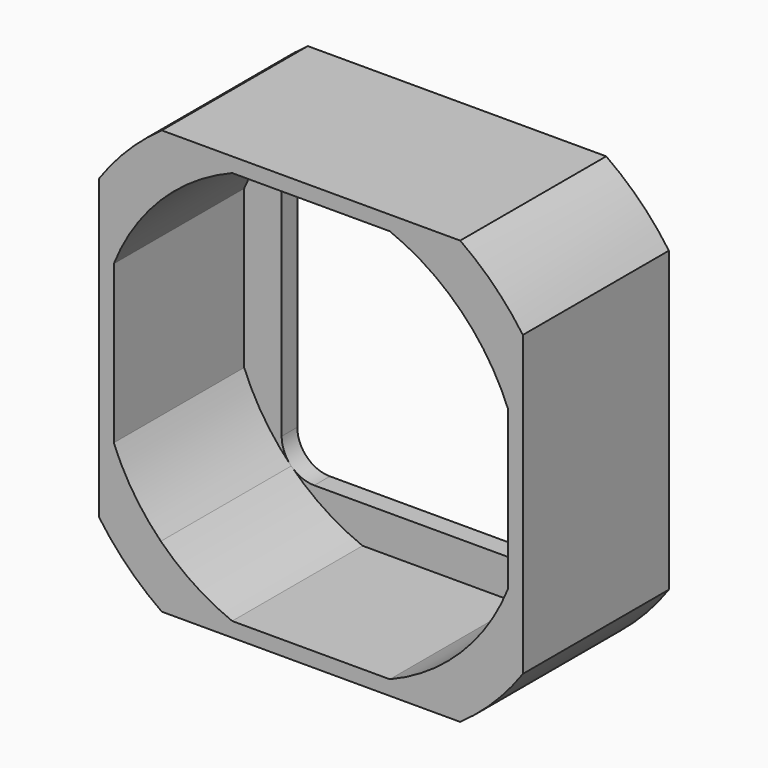
from build123d import *

# Parameters (mm, degrees)
F1_DEPTH = 3
F3_DEPTH = 25


with BuildPart() as f1:
    # F0 (on Front) → F1 (new body)
    with BuildSketch(Plane.XZ):
        with BuildLine():
            ThreePointArc((32.5, 22.88695), (28.107495, 28.107495), (22.88695, 32.5))
            Line((22.88695, 32.5), (-22.88695, 32.5))
            ThreePointArc((-22.88695, 32.5), (-28.107495, 28.107495), (-32.5, 22.88695))
            Line((-32.5, 22.88695), (-32.5, -22.88695))
            ThreePointArc((-32.5, -22.88695), (-28.107495, -28.107495), (-22.88695, -32.5))
            Line((-22.88695, -32.5), (22.88695, -32.5))
            ThreePointArc((22.88695, -32.5), (28.107495, -28.107495), (32.5, -22.88695))
            Line((32.5, -22.88695), (32.5, 22.88695))
        make_face()
        with BuildLine():
            ThreePointArc((24.5, -19.5), (23.035534, -23.035534), (19.5, -24.5))
            Line((19.5, -24.5), (-19.5, -24.5))
            ThreePointArc((-19.5, -24.5), (-23.035534, -23.035534), (-24.5, -19.5))
            Line((-24.5, -19.5), (-24.5, 19.5))
            ThreePointArc((-24.5, 19.5), (-23.035534, 23.035534), (-19.5, 24.5))
            Line((-19.5, 24.5), (19.5, 24.5))
            ThreePointArc((19.5, 24.5), (23.035534, 23.035534), (24.5, 19.5))
            Line((24.5, 19.5), (24.5, -19.5))
        make_face(mode=Mode.SUBTRACT)
    extrude(amount=F1_DEPTH)

    # F2 (on face) → F3 (join)
    with BuildSketch(Plane.XZ.offset(3)):
        with BuildLine():
            Line((32.5, -22.88695), (32.5, 22.88695))
            ThreePointArc((32.5, 22.88695), (28.107495, 28.107495), (22.88695, 32.5))
            Line((22.88695, 32.5), (-22.88695, 32.5))
            ThreePointArc((-22.88695, 32.5), (-28.107495, 28.107495), (-32.5, 22.88695))
            Line((-32.5, 22.88695), (-32.5, -22.88695))
            ThreePointArc((-32.5, -22.88695), (-28.107495, -28.107495), (-22.88695, -32.5))
            Line((-22.88695, -32.5), (22.88695, -32.5))
            ThreePointArc((22.88695, -32.5), (28.107495, -28.107495), (32.5, -22.88695))
        make_face()
        with BuildLine():
            Line((-12.091697, 30.25), (12.091697, 30.25))
            ThreePointArc((12.091697, 30.25), (17.930218, 27.198877), (23.035534, 23.035534))
            ThreePointArc((23.035534, 23.035534), (27.198877, 17.930218), (30.25, 12.091697))
            Line((30.25, 12.091697), (30.25, -12.091697))
            ThreePointArc((30.25, -12.091697), (27.198877, -17.930218), (23.035534, -23.035534))
            ThreePointArc((23.035534, -23.035534), (17.930218, -27.198877), (12.091697, -30.25))
            Line((12.091697, -30.25), (-12.091697, -30.25))
            ThreePointArc((-12.091697, -30.25), (-17.930218, -27.198877), (-23.035534, -23.035534))
            ThreePointArc((-23.035534, -23.035534), (-27.198877, -17.930218), (-30.25, -12.091697))
            Line((-30.25, -12.091697), (-30.25, 12.091697))
            ThreePointArc((-30.25, 12.091697), (-27.198877, 17.930218), (-23.035534, 23.035534))
            ThreePointArc((-23.035534, 23.035534), (-17.930218, 27.198877), (-12.091697, 30.25))
        make_face(mode=Mode.SUBTRACT)
    extrude(amount=F3_DEPTH)


solid = f1.part
